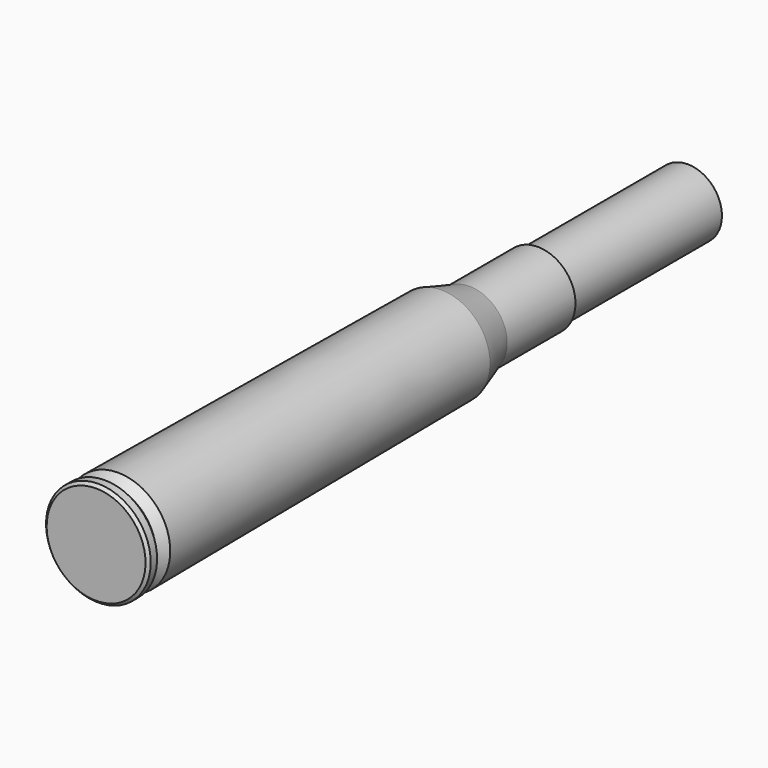
from build123d import *

# Parameters (mm, degrees)
F0_W = 21.49
F0_H = 3.925


with BuildPart() as f1:
    # F0 (on Right) → F1 (revolve)
    with BuildSketch(Plane.YZ):
        Polygon((0, 5.675), (0, 0), (0.33, 0), (0.33, 6.005), align=None)
        Polygon((0.33, 6.005), (0.33, 0), (1.24, 0), (2.08, 0), (2.08, 5.195), (1.24, 5.195), (1.24, 6.005), align=None)
        Polygon((2.08, 5.195), (2.08, 0), (3.16, 0), (3.16, 5.98), align=None)
        Polygon((3.16, 5.98), (3.16, 0), (49.49, 0), (49.49, 5.6), align=None)
        Polygon((49.49, 5.6), (49.49, 0), (53.56, 0), (63.35, 0), (63.35, 3.925), (63.35, 4.3153), (53.56, 4.3153), align=None)
        with Locations((74.095, 1.9625)):
            Rectangle(F0_W, F0_H)
    revolve(axis=Axis((0, 26.325, 0), (0, 1, 0)))


solid = f1.part
